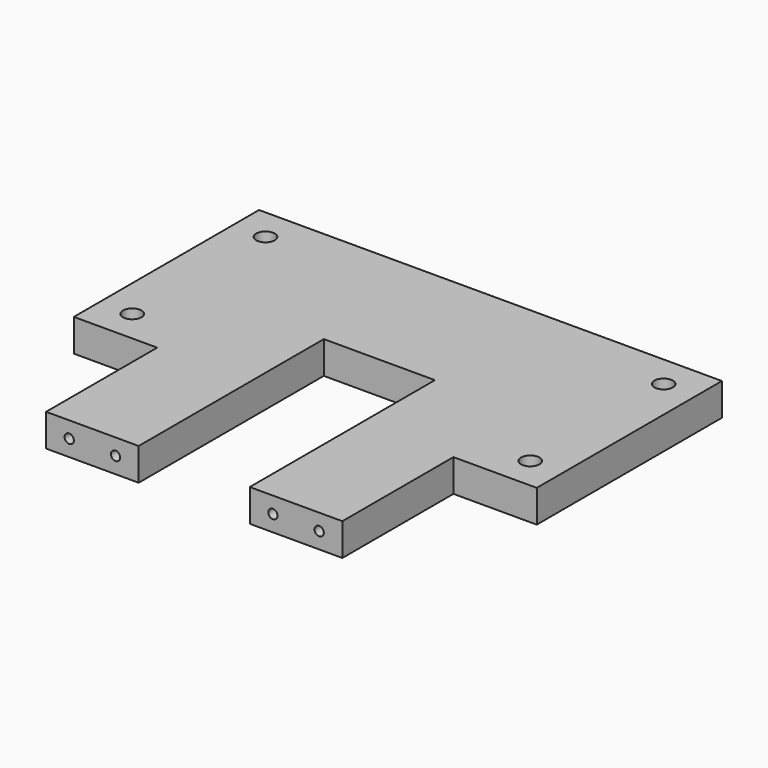
from build123d import *

# Parameters (mm, degrees)
SKETCH001_R  = 1
PAD_DEPTH    = 3.5
SKETCH002_R  = 0.5
POCKET_DEPTH = 10


with BuildPart() as part:
    # Sketch001 → Pad (new body)
    with BuildSketch(Plane.XY):
        Polygon((9, 0), (9, 15), (0, 15), (0, 40), (50, 40), (50, 15), (41, 15), (41, 0), (31, 0), (31, 25), (19, 25), (19, 0), align=None)
        with Locations((46.504002, 36.501442)):
            Circle(SKETCH001_R, mode=Mode.SUBTRACT)
        with Locations((3.500559, 36.501442)):
            Circle(SKETCH001_R, mode=Mode.SUBTRACT)
        with Locations((3.500559, 18.503159)):
            Circle(SKETCH001_R, mode=Mode.SUBTRACT)
        with Locations((46.496666, 18.503159)):
            Circle(SKETCH001_R, mode=Mode.SUBTRACT)
    extrude(amount=PAD_DEPTH)

    # Sketch002 (on Face9 of Pad) → Pocket (cut)
    with BuildSketch(Plane.XZ):
        with Locations((38.501091, 1.746948)):
            Circle(SKETCH002_R)
        with Locations((33.500816, 1.749735)):
            Circle(SKETCH002_R)
        with Locations((16.500931, 1.75016)):
            Circle(SKETCH002_R)
        with Locations((11.498322, 1.75016)):
            Circle(SKETCH002_R)
    extrude(amount=-POCKET_DEPTH, mode=Mode.SUBTRACT)


solid = part.part
